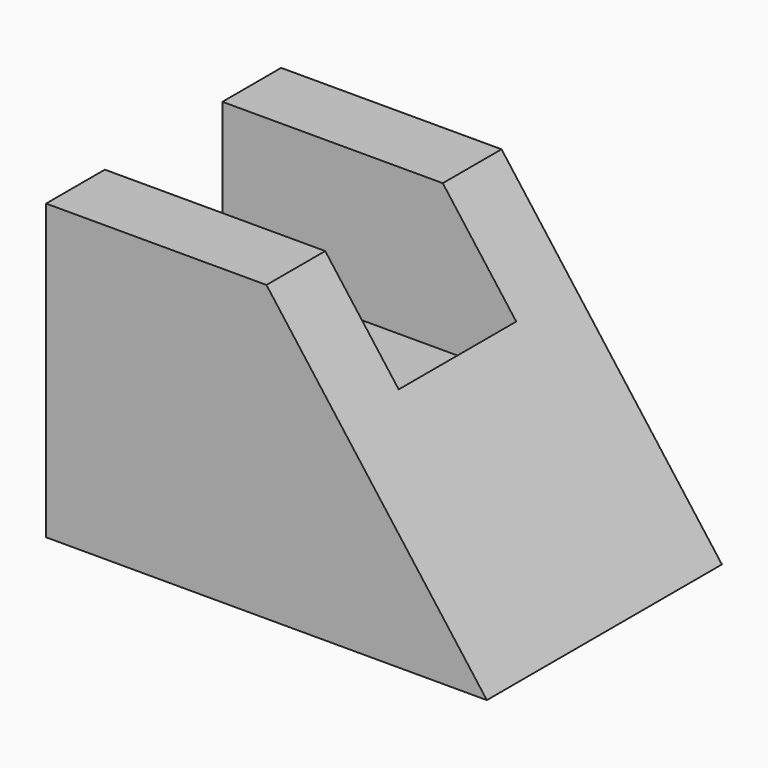
from build123d import *

# Parameters (mm, degrees)
F1_DEPTH = 25.4
F2_W     = 12.7
F2_H     = 12.7
F3_DEPTH = 25.4


with BuildPart() as f1:
    # F0 (on Front) → F1 (new body)
    with BuildSketch(Plane.XZ):
        Polygon((0, 25.4), (0, 0), (38.1, 0), (19.05, 25.4), align=None)
    extrude(amount=-F1_DEPTH)

    # F2 (on Right) → F3 (cut)
    with BuildSketch(Plane.YZ):
        with Locations((12.7, 19.05)):
            Rectangle(F2_W, F2_H)
    extrude(amount=F3_DEPTH, mode=Mode.SUBTRACT)


solid = f1.part
